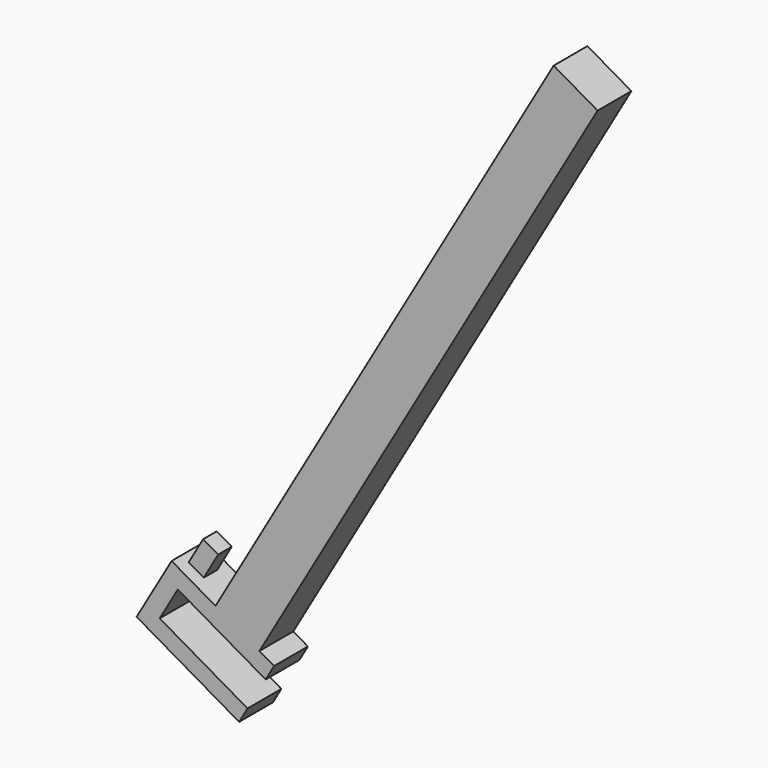
from build123d import *

# Parameters (mm, degrees)
F1_DEPTH = 25
F2_ANGLE = 30
F4_DEPTH = 25
F6_START = 7.5
F6_DEPTH = 10


with BuildPart() as f1:
    # F0 (on Front) → F1 (new body)
    with BuildSketch(Plane.XZ):
        Polygon((59.6599376417, 0), (59.6599376417, 10), (-0.3400623583, 10), (-0.3400623583, 31.4), (59.6599376417, 31.4), (59.6599376417, 41.4), (-10.3400623583, 41.4), (-10.3400623583, 0), align=None)
    extrude(amount=F1_DEPTH)


with BuildPart() as f1_1:
    # F2: moved
    add(f1.part.rotate(Axis((-10.3400623583, -12.5, 0), (0, 1, 0)), F2_ANGLE))

    # F3 (on Front) → F4 (join)
    with BuildSketch(Plane.XZ):
        Polygon((36.3406997552, 20.8534517167), (62.3214618687, 5.8534517167), (262.3214618687, 352.2636132305), (236.3406997552, 367.2636132305), align=None)
    extrude(amount=F4_DEPTH)

    # F5 (on Front) → F6 (join)
    with BuildSketch(Plane.XZ.offset(F6_START)):
        Polygon((23.3896902468, 28.3307205427), (31.9308649473, 43.1244690803), (23.0304820152, 48.263107562), (14.4893073146, 33.4693590244), align=None)
    extrude(amount=F6_DEPTH)


solid = f1_1.part
